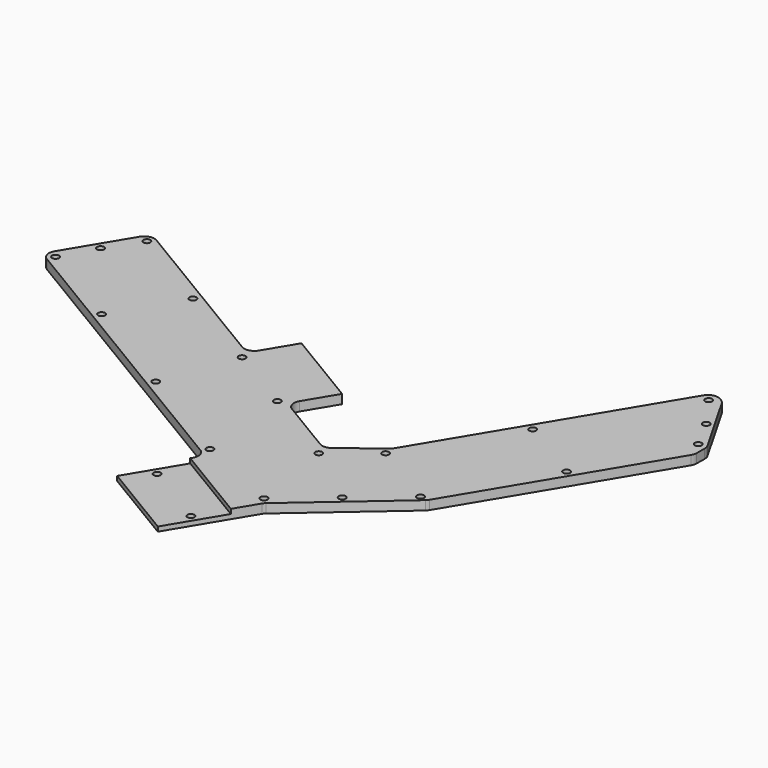
from build123d import *

# Parameters (mm, degrees)
PAD012_DEPTH            = 3
FILLET037_R             = 3.35
SKETCH185_R             = 1.15
POCKET053_DEPTH         = 3
POCKET056_DEPTH         = 5
SKETCH189_W             = 32
SKETCH189_H             = 20
POCKET057_DEPTH         = 1.5
BODY024_PLACEMENT_ANGLE = 149


with BuildPart() as part:
    # Sketch184 → Pad012 (new body)
    with BuildSketch(Plane(origin=(0, 0, 0), x_dir=(1, 0, 0), z_dir=(0, 0, -1))):
        Polygon((101.467362, -402.500006), (130.400002, -402.500006), (135.400002, -402.500006), (135.400002, -397.500006), (174.999975, -357.90402), (174.999975, -245), (289.999995, -245), (294.999995, -245), (294.999995, -215), (289.999995, -215), (224.999995, -215), (224.999995, -199.999997), (219.999995, -199.999997), (199.999995, -199.999997), (194.999995, -199.999997), (194.999995, -215.000003), (168.459985, -215.000003), (161.999993, -198.359996), (161.999993, -115.000006), (161.999993, -110.000006), (156.999993, -110.000006), (134.576923, -122.534363), (131.999997, -126.895911), (131.999997, -200.027011), (144.989344, -239.967928), (144.989344, -343.839368), (96.467362, -392.500006), (96.467362, -397.500006), (96.467362, -402.500006), align=None)
    extrude(amount=PAD012_DEPTH)

    # Fillet037
    fillet037_edges = [part.edges().sort_by_distance(p)[0] for p in [
        (194.999995, 215.000003, -1.5),
        (168.459985, 215.000003, -1.5),
        (161.999993, 198.359996, -1.5),
        (161.999993, 110.000006, -1.5),
        (156.999993, 110.000006, -1.5),
        (134.576923, 122.534363, -1.5),
        (131.999997, 126.895911, -1.5),
        (131.999997, 200.027011, -1.5),
        (144.989344, 239.967928, -1.5),
        (144.989344, 343.839368, -1.5),
        (96.467362, 392.500006, -1.5),
        (135.400002, 397.500006, -1.5),
        (174.999975, 357.90402, -1.5),
        (174.999975, 245, -1.5),
        (294.999995, 245, -1.5),
        (294.999995, 215, -1.5),
        (224.999995, 215, -1.5),
    ]]
    fillet(fillet037_edges, radius=FILLET037_R)

    # Sketch185 (on Face5 of Fillet037) → Pocket053 (cut)
    with BuildSketch(Plane(origin=(0, 0, -3), x_dir=(1, 0, 0), z_dir=(0, 0, -1))):
        with Locations((105, -389)):
            Circle(SKETCH185_R)
        with Locations((145, -349)):
            Circle(SKETCH185_R)
        with Locations((147.500002, -309.000005)):
            Circle(SKETCH185_R)
        with Locations((147.500002, -259.000004)):
            Circle(SKETCH185_R)
        with Locations((172.500003, -259.000004)):
            Circle(SKETCH185_R)
        with Locations((172.500003, -309.000005)):
            Circle(SKETCH185_R)
        with Locations((172.500003, -349.000005)):
            Circle(SKETCH185_R)
        with Locations((147.665007, -382.765018)):
            Circle(SKETCH185_R)
        with Locations((178.000003, -242.500004)):
            Circle(SKETCH185_R)
        with Locations((218.000003, -242.500004)):
            Circle(SKETCH185_R)
        with Locations((258.000004, -242.500004)):
            Circle(SKETCH185_R)
        with Locations((258.000004, -217.500003)):
            Circle(SKETCH185_R)
        with Locations((292, -242.500004)):
            Circle(SKETCH185_R)
        with Locations((292.000004, -217.500003)):
            Circle(SKETCH185_R)
        with Locations((292.500004, -230.000003)):
            Circle(SKETCH185_R)
        with Locations((223.000003, -217.000003)):
            Circle(SKETCH185_R)
        with Locations((197, -217)):
            Circle(SKETCH185_R)
        with Locations((166.109996, -217.109995)):
            Circle(SKETCH185_R)
        with Locations((147.500002, -239)):
            Circle(SKETCH185_R)
        with Locations((141, -220)):
            Circle(SKETCH185_R)
        with Locations((134.427551, -201)):
            Circle(SKETCH185_R)
        with Locations((160.149996, -200.999996)):
            Circle(SKETCH185_R)
        with Locations((134.427551, -161)):
            Circle(SKETCH185_R)
        with Locations((159.500002, -161.000002)):
            Circle(SKETCH185_R)
        with Locations((137, -124)):
            Circle(SKETCH185_R)
        with Locations((146.849997, -118.149997)):
            Circle(SKETCH185_R)
        with Locations((159, -113)):
            Circle(SKETCH185_R)
    extrude(amount=-POCKET053_DEPTH, mode=Mode.SUBTRACT)

    # Sketch188 (on Face5 of Pocket053) → Pocket056 (cut)
    with BuildSketch(Plane(origin=(0, 0, -3), x_dir=(1, 0, 0), z_dir=(0, 0, -1))):
        Polygon((145, -269), (175, -269), (176, -269), (176, -410), (90, -410), (90, -269), align=None)
    extrude(amount=-POCKET056_DEPTH, mode=Mode.SUBTRACT)

    # Sketch189 (on Face2 of Pocket056) → Pocket057 (cut)
    with BuildSketch(Plane.XY):
        with Locations((160, 259)):
            Rectangle(SKETCH189_W, SKETCH189_H)
    extrude(amount=-POCKET057_DEPTH, mode=Mode.SUBTRACT)


with BuildPart() as part_1:
    # Body024 placement: moved
    add(part.part.moved(Location((707.641298, 2.853319, 22))).rotate(Axis((707.641298, 2.853319, 22), (0, 0, 1)), BODY024_PLACEMENT_ANGLE))


with BuildPart() as part_2:
    # Clone001 placement: moved
    add(part_1.part.moved(Location((-327.853753, 7.260058, -22))))


solid = part_2.part
